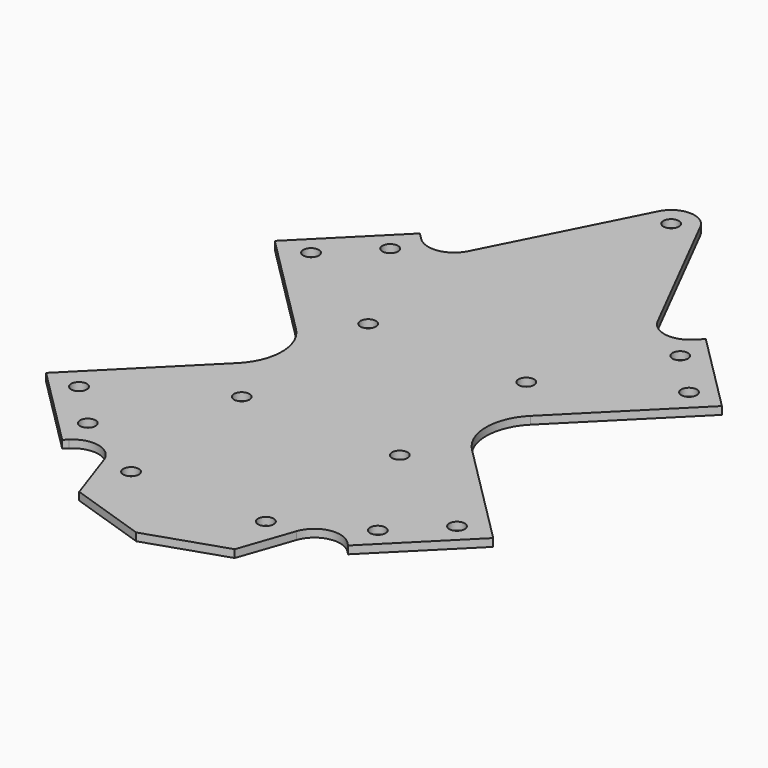
from build123d import *

# Parameters (mm, degrees)
F0_R     = 1.5
F1_DEPTH = 1.5


with BuildPart() as f1:
    # F0 (on Top) → F1 (new body)
    with BuildSketch(Plane.XY):
        with BuildLine():
            Line((-27.577164, 43.133514), (-43.133514, 27.577164))
            Line((-43.133514, 27.577164), (-22.627417, 7.071068))
            ThreePointArc((-22.627417, 7.071068), (-19.698485, 0), (-22.627417, -7.071068))
            Line((-22.627417, -7.071068), (-43.133514, -27.577164))
            Line((-43.133514, -27.577164), (-27.577164, -43.133514))
            Line((-27.577164, -43.133514), (-26.858725, -42.415074))
            ThreePointArc((-26.858725, -42.415074), (-22.199524, -41.078506), (-18.596326, -44.320655))
            Line((-18.596326, -44.320655), (-15, -54.75))
            Line((-15, -54.75), (0, -59.75))
            Line((0, -59.75), (15, -54.75))
            Line((15, -54.75), (18.596326, -44.320655))
            ThreePointArc((18.596326, -44.320655), (22.199524, -41.078506), (26.858725, -42.415074))
            Line((26.858725, -42.415074), (27.577164, -43.133514))
            Line((27.577164, -43.133514), (43.133514, -27.577164))
            Line((43.133514, -27.577164), (22.627417, -7.071068))
            ThreePointArc((22.627417, -7.071068), (19.698485, 0), (22.627417, 7.071068))
            Line((22.627417, 7.071068), (43.133514, 27.577164))
            Line((43.133514, 27.577164), (27.577164, 43.133514))
            Line((27.577164, 43.133514), (26.287527, 41.843876))
            ThreePointArc((26.287527, 41.843876), (21.964752, 40.441774), (18.29231, 43.118608))
            Line((18.29231, 43.118608), (4.013715, 71.284722))
            ThreePointArc((4.013715, 71.284722), (0, 73.75), (-4.013715, 71.284722))
            Line((-4.013715, 71.284722), (-18.29231, 43.118608))
            ThreePointArc((-18.29231, 43.118608), (-21.964752, 40.441774), (-26.287527, 41.843876))
            Line((-26.287527, 41.843876), (-27.577164, 43.133514))
        make_face()
        with Locations((-36.463203, -27.977922)):
            Circle(F0_R, mode=Mode.SUBTRACT)
        with Locations((-27.977922, -36.463203)):
            Circle(F0_R, mode=Mode.SUBTRACT)
        with Locations((-13, -44.75)):
            Circle(F0_R, mode=Mode.SUBTRACT)
        with Locations((-15.25, -15.25)):
            Circle(F0_R, mode=Mode.SUBTRACT)
        with Locations((13, -44.75)):
            Circle(F0_R, mode=Mode.SUBTRACT)
        with Locations((27.977922, -36.463203)):
            Circle(F0_R, mode=Mode.SUBTRACT)
        with Locations((36.463203, -27.977922)):
            Circle(F0_R, mode=Mode.SUBTRACT)
        with Locations((15.25, -15.25)):
            Circle(F0_R, mode=Mode.SUBTRACT)
        with Locations((-36.463203, 27.977922)):
            Circle(F0_R, mode=Mode.SUBTRACT)
        with Locations((-27.977922, 36.463203)):
            Circle(F0_R, mode=Mode.SUBTRACT)
        with Locations((-15.25, 15.25)):
            Circle(F0_R, mode=Mode.SUBTRACT)
        with Locations((0, 69.25)):
            Circle(F0_R, mode=Mode.SUBTRACT)
        with Locations((15.25, 15.25)):
            Circle(F0_R, mode=Mode.SUBTRACT)
        with Locations((27.977922, 36.463203)):
            Circle(F0_R, mode=Mode.SUBTRACT)
        with Locations((36.463203, 27.977922)):
            Circle(F0_R, mode=Mode.SUBTRACT)
    extrude(amount=F1_DEPTH)


solid = f1.part
